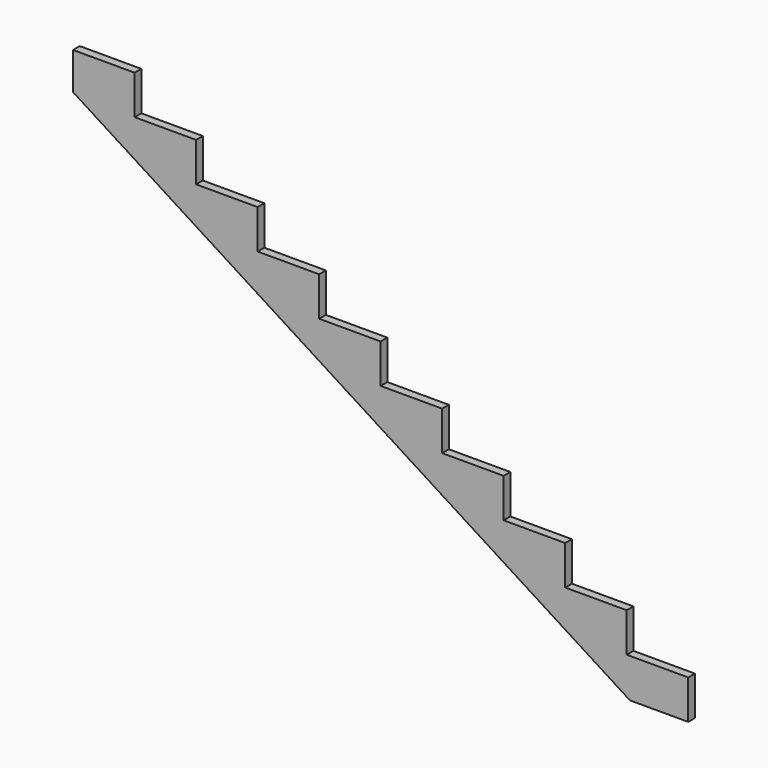
from build123d import *

# Parameters (mm, degrees)
F1_DEPTH = 38.1


with BuildPart() as f1:
    # F0 (on Front) → F1 (new body)
    with BuildSketch(Plane.XZ):
        Polygon((279.4, 0), (0, 0), (0, -168.428913), (2529.325994, -1778), (2794, -1778), (2794, -1600.2), (2514.6, -1600.2), (2514.6, -1422.4), (2235.2, -1422.4), (2235.2, -1244.6), (1955.8, -1244.6), (1955.8, -1066.8), (1676.4, -1066.8), (1676.4, -889), (1397, -889), (1397, -711.2), (1117.6, -711.2), (1117.6, -533.4), (838.2, -533.4), (838.2, -355.6), (558.8, -355.6), (558.8, -177.8), (279.4, -177.8), align=None)
    extrude(amount=F1_DEPTH)


solid = f1.part
